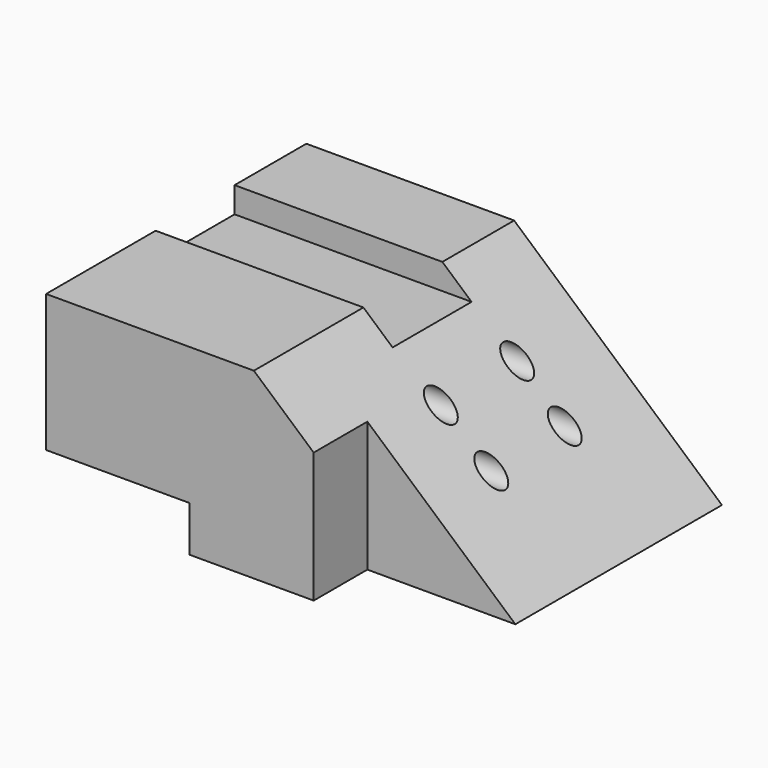
from build123d import *

# Parameters (mm, degrees)
F0_W     = 115.3964325786
F0_H     = 90.326808393
F1_DEPTH = 50.8
F2_W     = 39.7604890168
F2_H     = 12.6452748664
F3_DEPTH = 90.327808393
F4_W     = 41.0910267383
F4_H     = 18.6301916838
F5_DEPTH = 50.801
F6_R     = 3.3975971179
F6_W     = 27.4064959049
F6_H     = 7.1375382304
F7_DEPTH = 115.3974325786


with BuildPart() as f1:
    # F0 (on Top) → F1 (new body)
    with BuildSketch(Plane.XY):
        Rectangle(F0_W, F0_H)
    extrude(amount=F1_DEPTH)

    # F2 (on face) → F3 (cut, through all)
    with BuildSketch(Plane.XZ.offset(45.1634041965)):
        Polygon((57.6982162893, 50.8), (0, 50.8), (57.6982162893, 0), align=None)
        with Locations((-37.8179717809, 6.3226374332)):
            Rectangle(F2_W, F2_H)
    extrude(amount=-F3_DEPTH, mode=Mode.SUBTRACT)

    # F4 (on face) → F5 (cut, through all)
    with BuildSketch(Plane(origin=(0, 0, 0), x_dir=(1, 0, 0), z_dir=(0, 0, -1))):
        with Locations((37.1527029201, 35.8483083546)):
            Rectangle(F4_W, F4_H)
    extrude(amount=-F5_DEPTH, mode=Mode.SUBTRACT)

    # F6 (on face) → F7 (cut, through all)
    with BuildSketch(Plane(origin=(-57.6982162893, 0, 0), x_dir=(0, -1, 0), z_dir=(-1, 0, 0))):
        with Locations((-20.8592172712, 21.3062018156)):
            Circle(F6_R)
        with Locations((-20.8592191339, 32.9277664423)):
            Circle(F6_R)
        with Locations((5.6617897935, 32.9277664423)):
            Circle(F6_R)
        with Locations((5.065811798, 21.008213982)):
            Circle(F6_R)
        with Locations((-6.5557556227, 47.2312308848)):
            Rectangle(F6_W, F6_H)
    extrude(amount=-F7_DEPTH, mode=Mode.SUBTRACT)


solid = f1.part
